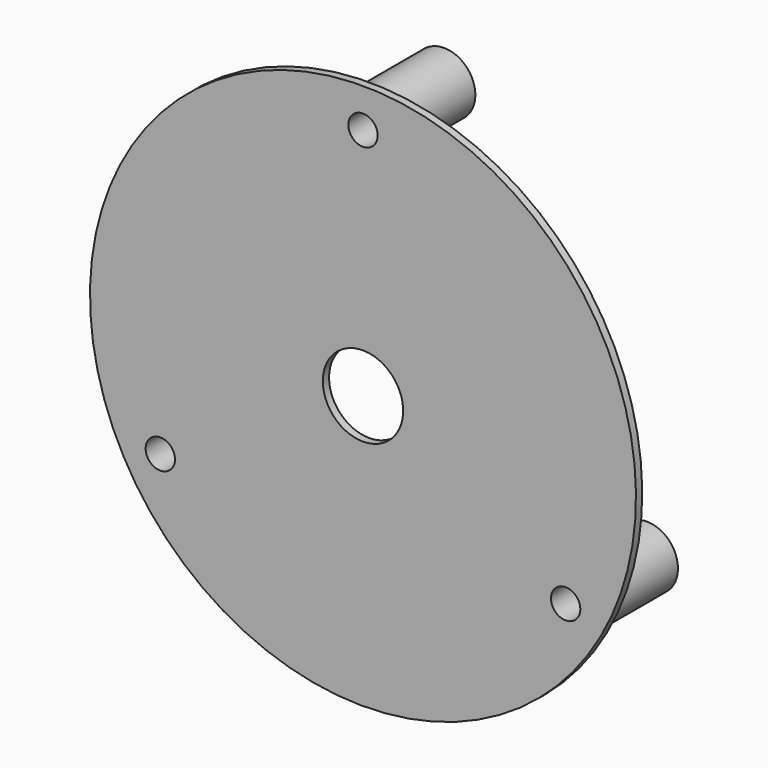
from build123d import *

# Parameters (mm, degrees)
SKETCH010_R           = 35
PAD001_DEPTH          = 1
SKETCH011_R           = 4
PAD002_DEPTH          = 12
POLARPATTERN003_COUNT = 3
SKETCH012_R           = 1.88
POCKET004_DEPTH       = 212.690759
POLARPATTERN004_COUNT = 3
SKETCH013_R           = 5.15
POCKET005_DEPTH       = 1.001
BODY003_ROLL_ANGLE    = 180
BODY003_PITCH_ANGLE   = 60


with BuildPart() as part:
    # Sketch010 → Pad001 (new body)
    with BuildSketch(Plane.XZ):
        Circle(SKETCH010_R)
    extrude(amount=PAD001_DEPTH)

    # Sketch011 (on Face3 of Pad001) → Pad002 (join)
    with BuildSketch(Plane.XZ.offset(1)):
        with Locations((0, 30)):
            Circle(SKETCH011_R)
    pad002 = extrude(amount=PAD002_DEPTH)

    # PolarPattern003: Pad002 ×3 about axis
    polarpattern003_axis = Axis((0, -1, 0), (0, -1, 0))
    for i in range(1, POLARPATTERN003_COUNT):
        add(pad002.rotate(polarpattern003_axis, i * 360 / POLARPATTERN003_COUNT))

    # Sketch012 (on Face8 of PolarPattern003) → Pocket004 (cut, through all)
    with BuildSketch(Plane.XZ.offset(13)):
        with Locations((0, 30)):
            Circle(SKETCH012_R)
    pocket004 = extrude(amount=-POCKET004_DEPTH, mode=Mode.SUBTRACT)

    # PolarPattern004: Pocket004 ×3 about axis
    polarpattern004_axis = Axis((0, -13, 0), (0, -1, 0))
    for i in range(1, POLARPATTERN004_COUNT):
        add(pocket004.rotate(polarpattern004_axis, i * 360 / POLARPATTERN004_COUNT), mode=Mode.SUBTRACT)

    # Sketch013 (on Face3 of PolarPattern004) → Pocket005 (cut, through all)
    with BuildSketch(Plane.XZ.offset(1)):
        Circle(SKETCH013_R)
    extrude(amount=-POCKET005_DEPTH, mode=Mode.SUBTRACT)


with BuildPart() as part_1:
    # Body003 roll: moved
    add(part.part.rotate(Axis((0, 0, 0), (1, 0, 0)), BODY003_ROLL_ANGLE))


with BuildPart() as part_2:
    # Body003 pitch: moved
    add(part_1.part.rotate(Axis((0, 0, 0), (0, 1, 0)), BODY003_PITCH_ANGLE))


with BuildPart() as part_3:
    # Body003 placement: moved
    add(part_2.part.moved(Location((75.34421, -18, 43.5))))


solid = part_3.part
